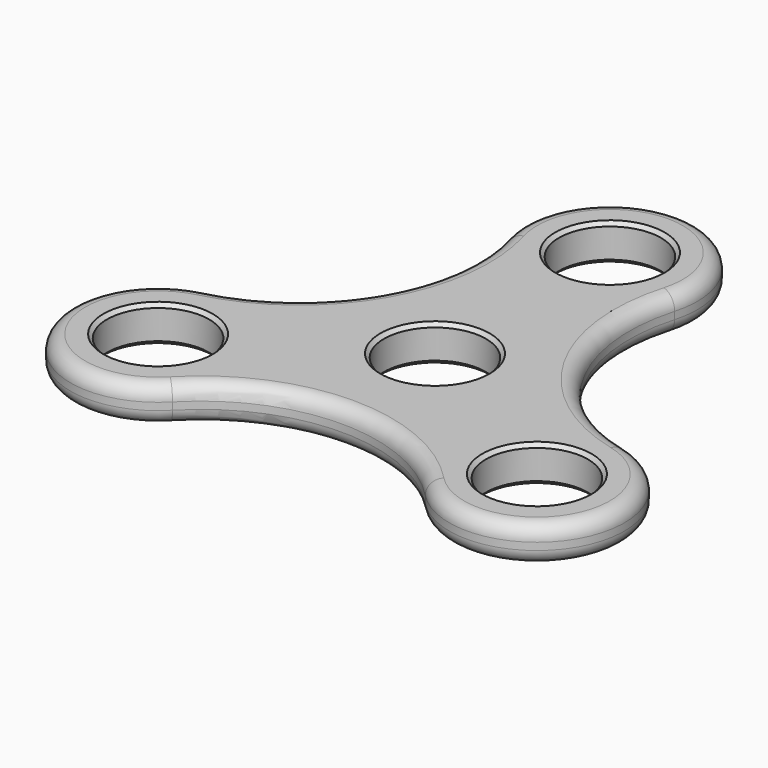
from build123d import *

# Parameters (mm, degrees)
F0_R     = 7
F1_DEPTH = 2.5
F2_R     = 2
F3_SIZE  = 0.5


with BuildPart() as f1:
    # F0 (on Top) → F1 (new body, symmetric)
    with BuildSketch(Plane.XY):
        with BuildLine():
            ThreePointArc((28.871152, -3.353299), (13.81755, 7.977566), (11.531534, 26.6798))
            ThreePointArc((11.531534, 26.6798), (0, 42), (-11.531534, 26.6798))
            ThreePointArc((-11.531534, 26.6798), (-13.81755, 7.977566), (-28.871152, -3.353299))
            ThreePointArc((-28.871152, -3.353299), (-36.373067, -21), (-17.339618, -23.326501))
            ThreePointArc((-17.339618, -23.326501), (0, -15.955133), (17.339618, -23.326501))
            ThreePointArc((17.339618, -23.326501), (36.373067, -21), (28.871152, -3.353299))
        make_face()
        with Locations((-25.980762, -15)):
            Circle(F0_R, mode=Mode.SUBTRACT)
        with Locations((25.980762, -15)):
            Circle(F0_R, mode=Mode.SUBTRACT)
        Circle(F0_R, mode=Mode.SUBTRACT)
        with Locations((0, 30)):
            Circle(F0_R, mode=Mode.SUBTRACT)
    extrude(amount=F1_DEPTH, both=True)

    # F2
    f2_edges = [f1.edges().sort_by_distance(p)[0] for p in [
        (0, -15.955133, 2.5),
        (13.81755, 7.977566, -2.5),
    ]]
    fillet(f2_edges, radius=F2_R)

    # F3
    f3_edges = [f1.edges().sort_by_distance(p)[0] for p in [
        (-32.980762, -15, 2.5),
        (-7, 0, 2.5),
        (18.980762, -15, 2.5),
        (-7, 30, 2.5),
        (-7, 0, -2.5),
        (18.980762, -15, -2.5),
        (-32.980762, -15, -2.5),
        (-7, 30, -2.5),
    ]]
    chamfer(f3_edges, length=F3_SIZE)


solid = f1.part
